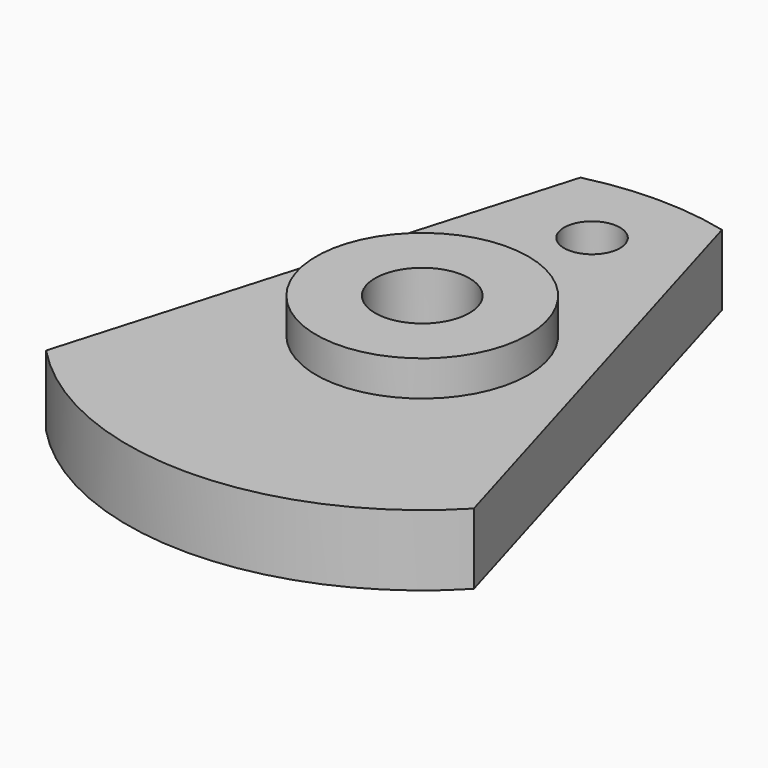
from build123d import *

# Parameters (mm, degrees)
F0_R     = 4.5
F0_R_2   = 1.185
F1_DEPTH = 3
F0_R_3   = 2
F2_DEPTH = 4.5


with BuildPart() as f1:
    # F0 (on Top) → F1 (new body)
    with BuildSketch(Plane.XY):
        with BuildLine():
            Line((-3, 12.134661), (-9.06962, -8.60186))
            ThreePointArc((-9.06962, -8.60186), (0, -12.5), (9.06962, -8.60186))
            Line((9.06962, -8.60186), (3, 12.134661))
            ThreePointArc((3, 12.134661), (0, 12.5), (-3, 12.134661))
        make_face()
        Circle(F0_R, mode=Mode.SUBTRACT)
        with Locations((0, 9)):
            Circle(F0_R_2, mode=Mode.SUBTRACT)
    extrude(amount=F1_DEPTH)

    # F0 (on Top) → F2 (join)
    with BuildSketch(Plane.XY):
        Circle(F0_R)
        Circle(F0_R_3, mode=Mode.SUBTRACT)
    extrude(amount=F2_DEPTH)


solid = f1.part
